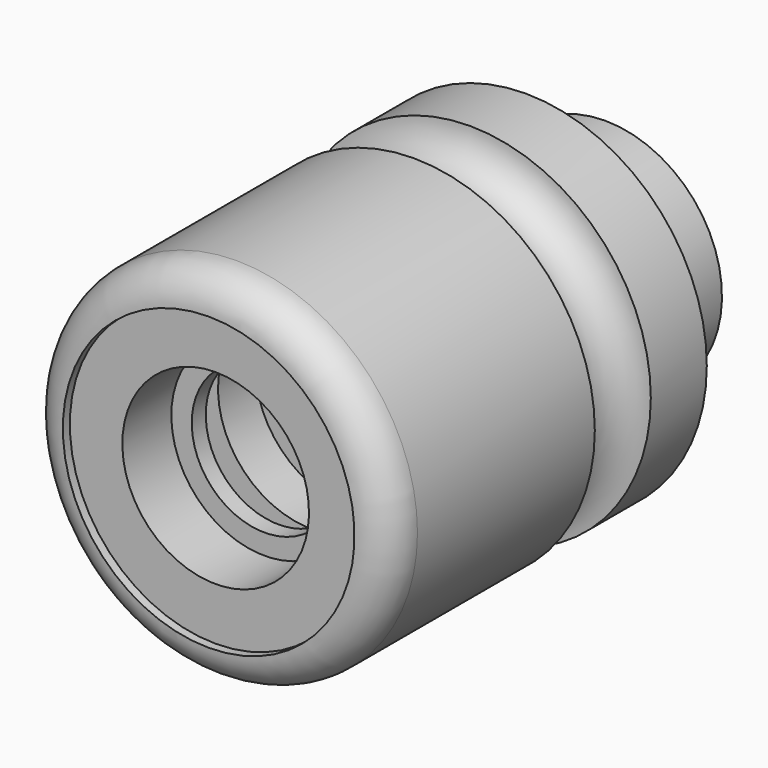
from build123d import *

# Parameters (mm, degrees)
F2_R = 6


with BuildPart() as f1:
    # F0 (on Right) → F1 (revolve)
    with BuildSketch(Plane.YZ):
        with BuildLine():
            Line((0, 31), (-44, 31))
            Line((-44, 31), (-44, 0))
            Line((-44, 0), (24, 0))
            Line((24, 0), (24, 31))
            Line((24, 31), (12, 31))
            ThreePointArc((12, 31), (6, 25), (0, 31))
        make_face()
    revolve(axis=Axis((0, 4.568492, 0), (0, 1, 0)))

    # F2
    f2_edges = [f1.edges().sort_by_distance(p)[0] for p in [
        (0, -44, -31),
    ]]
    fillet(f2_edges, radius=F2_R)

    # F3 (on Right) → F4 (revolve)
    with BuildSketch(Plane.YZ):
        Polygon((41, 20), (24, 20), (24, 0), (44, 0), (44, 16), (41, 16), align=None)
    revolve(axis=Axis((0, 39.701345, 0), (0, 1, 0)))

    # F5 (on Right) → F6 (revolve, cut)
    with BuildSketch(Plane.YZ):
        Polygon((-42.5, 25), (-44, 25), (-44, 0), (44, 0), (44, 6), (-14, 6), (-14, 16), (-22, 16), (-22, 20.5), (-29, 20.5), (-29, 12.5), (-32, 12.5), (-32, 16), (-42.5, 16), align=None)
    revolve(axis=Axis((0, 2.262007, 0), (0, 1, 0)), mode=Mode.SUBTRACT)


solid = f1.part
